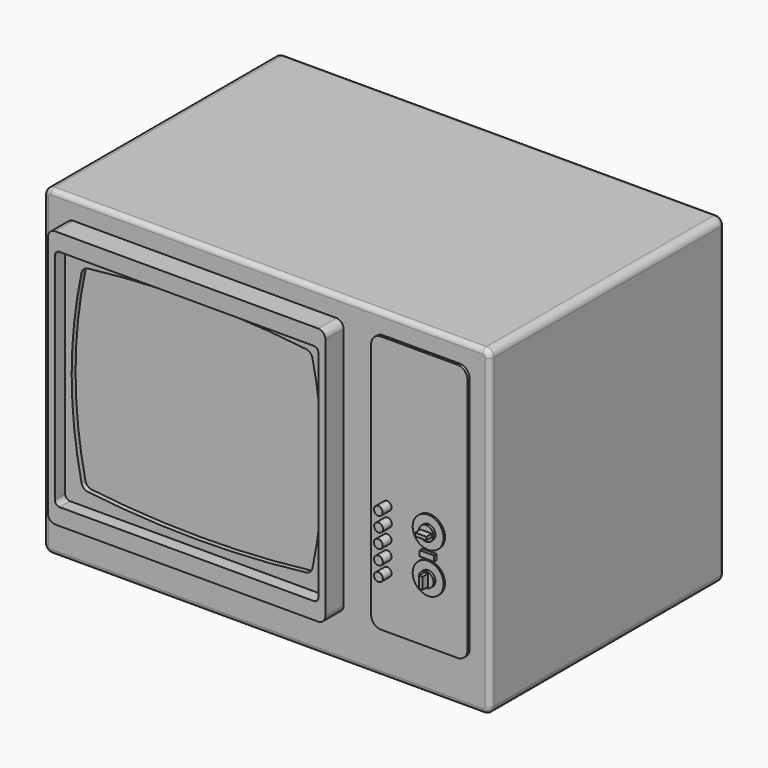
from build123d import *

# Parameters (mm, degrees)
F1_DEPTH  = 38.1
F2_DEPTH  = 44.00317
F3_DEPTH  = 40.64
F4_DEPTH  = 39.37
F0_R      = 4.0173790879
F0_W      = 3.752985141
F0_H      = 1.4123987705
F0_R_2    = 1.1369587116
F0_R_3    = 1.1476362506
F0_R_4    = 1.143
F0_R_5    = 1.1456118613
F0_R_6    = 1.1397385541
F5_DEPTH  = 38.79369
F6_DEPTH  = 39.6409
F7_DEPTH  = 41.65246
F0_R_7    = 1.9052240012
F0_R_8    = 1.9049330532
F8_DEPTH  = 39.24346
F0_W_2    = 2.9212470267
F0_H_2    = 0.8331947029
F0_W_3    = 0.8980770495
F0_H_3    = 2.9840085322
F9_DEPTH  = 39.88759
F10_DEPTH = 41.66646
F11_R     = 1.27


with BuildPart() as f1:
    # F0 (on Front) → F1 (new body, symmetric)
    with BuildSketch(Plane.XZ):
        with BuildLine():
            Line((57.7363984895, 43.2666391134), (-54.5413250339, 43.2666391134))
            ThreePointArc((-54.5413250339, 43.2666391134), (-55.8883634521, 42.7086775316), (-56.4463250339, 41.3616391134))
            Line((-56.4463250339, 41.3616391134), (-56.4463250339, -38.4328233314))
            ThreePointArc((-56.4463250339, -38.4328233314), (-55.8883634521, -39.7798617495), (-54.5413250339, -40.3378233314))
            Line((-54.5413250339, -40.3378233314), (57.7363984895, -40.3378233314))
            ThreePointArc((57.7363984895, -40.3378233314), (59.0834369076, -39.7798617495), (59.6413984895, -38.4328233314))
            Line((59.6413984895, -38.4328233314), (59.6413984895, 41.3616391134))
            ThreePointArc((59.6413984895, 41.3616391134), (59.0834369076, 42.7086775316), (57.7363984895, 43.2666391134))
        make_face()
        with BuildLine():
            ThreePointArc((-50.5886860192, 36.0365117204), (-50.0307244373, 37.3835501386), (-48.6836860192, 37.9415117204))
            Line((-48.6836860192, 37.9415117204), (19.661754207, 37.9415117204))
            ThreePointArc((19.661754207, 37.9415117204), (21.0087926252, 37.3835501386), (21.566754207, 36.0365117204))
            Line((21.566754207, 36.0365117204), (21.566754207, 4.3932273984))
            Line((21.566754207, 4.3932273984), (21.566754207, -27.2500569236))
            ThreePointArc((21.566754207, -27.2500569236), (21.0087926252, -28.5970953418), (19.661754207, -29.1550569236))
            Line((19.661754207, -29.1550569236), (-48.6836860192, -29.1550569236))
            ThreePointArc((-48.6836860192, -29.1550569236), (-50.0307244373, -28.5970953418), (-50.5886860192, -27.2500569236))
            Line((-50.5886860192, -27.2500569236), (-50.5886860192, 4.3932273984))
            Line((-50.5886860192, 4.3932273984), (-50.5886860192, 36.0365117204))
        make_face(mode=Mode.SUBTRACT)
        with BuildLine():
            ThreePointArc((29.2881838977, 35.4015117204), (30.0321326735, 37.1975629446), (31.8281838977, 37.9415117204))
            Line((31.8281838977, 37.9415117204), (51.7762748218, 37.9415117204))
            ThreePointArc((51.7762748218, 37.9415117204), (53.572326046, 37.1975629446), (54.3162748218, 35.4015117204))
            Line((54.3162748218, 35.4015117204), (54.3162748218, 4.3932273984))
            Line((54.3162748218, 4.3932273984), (54.3162748218, -20.102346316))
            Line((54.3162748218, -20.102346316), (54.3162748218, -26.6150569236))
            ThreePointArc((54.3162748218, -26.6150569236), (53.572326046, -28.4111081478), (51.7762748218, -29.1550569236))
            Line((51.7762748218, -29.1550569236), (31.8281838977, -29.1550569236))
            ThreePointArc((31.8281838977, -29.1550569236), (30.0321326735, -28.4111081478), (29.2881838977, -26.6150569236))
            Line((29.2881838977, -26.6150569236), (29.2881838977, -20.102346316))
            Line((29.2881838977, -20.102346316), (29.2881838977, -17.181346316))
            Line((29.2881838977, -17.181346316), (29.2881838977, -7.858468514))
            Line((29.2881838977, -7.858468514), (29.2881838977, 1.464409288))
            Line((29.2881838977, 1.464409288), (29.2881838977, 4.3932273984))
            Line((29.2881838977, 4.3932273984), (29.2881838977, 35.4015117204))
        make_face(mode=Mode.SUBTRACT)
    extrude(amount=F1_DEPTH, both=True)

    # F0 (on Front) → F2 (join, symmetric)
    with BuildSketch(Plane.XZ):
        with BuildLine():
            Line((19.661754207, 37.9415117204), (-48.6836860192, 37.9415117204))
            ThreePointArc((-48.6836860192, 37.9415117204), (-50.0307244373, 37.3835501386), (-50.5886860192, 36.0365117204))
            Line((-50.5886860192, 36.0365117204), (-50.5886860192, 4.3932273984))
            Line((-50.5886860192, 4.3932273984), (-48.7916360192, 4.3932273984))
            Line((-48.7916360192, 4.3932273984), (-48.7916360192, 32.3468485344))
            ThreePointArc((-48.7916360192, 32.3468485344), (-48.4236511697, 33.2352425489), (-47.5352571552, 33.6032273984))
            Line((-47.5352571552, 33.6032273984), (18.5069753431, 33.6032273984))
            ThreePointArc((18.5069753431, 33.6032273984), (19.3953693575, 33.2352425489), (19.763354207, 32.3468485344))
            Line((19.763354207, 32.3468485344), (19.763354207, 4.3932273984))
            Line((19.763354207, 4.3932273984), (21.566754207, 4.3932273984))
            Line((21.566754207, 4.3932273984), (21.566754207, 36.0365117204))
            ThreePointArc((21.566754207, 36.0365117204), (21.0087926252, 37.3835501386), (19.661754207, 37.9415117204))
        make_face()
        with BuildLine():
            Line((-48.7916360192, 4.3932273984), (-50.5886860192, 4.3932273984))
            Line((-50.5886860192, 4.3932273984), (-50.5886860192, -27.2500569236))
            ThreePointArc((-50.5886860192, -27.2500569236), (-50.0307244373, -28.5970953418), (-48.6836860192, -29.1550569236))
            Line((-48.6836860192, -29.1550569236), (19.661754207, -29.1550569236))
            ThreePointArc((19.661754207, -29.1550569236), (21.0087926252, -28.5970953418), (21.566754207, -27.2500569236))
            Line((21.566754207, -27.2500569236), (21.566754207, 4.3932273984))
            Line((21.566754207, 4.3932273984), (19.763354207, 4.3932273984))
            Line((19.763354207, 4.3932273984), (19.763354207, -23.5603937376))
            ThreePointArc((19.763354207, -23.5603937376), (19.3953693575, -24.4487877521), (18.5069753431, -24.8167726016))
            Line((18.5069753431, -24.8167726016), (-47.5352571552, -24.8167726016))
            ThreePointArc((-47.5352571552, -24.8167726016), (-48.4236511697, -24.4487877521), (-48.7916360192, -23.5603937376))
            Line((-48.7916360192, -23.5603937376), (-48.7916360192, 4.3932273984))
        make_face()
    extrude(amount=F2_DEPTH, both=True)

    # F0 (on Front) → F3 (join)
    with BuildSketch(Plane.XZ):
        with BuildLine():
            Line((-48.7916360192, 32.3468485344), (-48.7916360192, 4.3932273984))
            Line((-48.7916360192, 4.3932273984), (-47.0966382993, 4.3932273984))
            ThreePointArc((-47.0966382993, 4.3932273984), (-46.453913742, 16.4975133722), (-44.5329683267, 28.4656712297))
            ThreePointArc((-44.5329683267, 28.4656712297), (-43.952751929, 29.4734911581), (-42.8947788937, 29.9562386416))
            ThreePointArc((-42.8947788937, 29.9562386416), (-14.5109659061, 31.6314294913), (13.8728470815, 29.9562386416))
            ThreePointArc((13.8728470815, 29.9562386416), (14.9308201168, 29.4734911581), (15.5110365145, 28.4656712297))
            ThreePointArc((15.5110365145, 28.4656712297), (17.4319819299, 16.4975133722), (18.0747064871, 4.3932273984))
            Line((18.0747064871, 4.3932273984), (19.763354207, 4.3932273984))
            Line((19.763354207, 4.3932273984), (19.763354207, 32.3468485344))
            ThreePointArc((19.763354207, 32.3468485344), (19.3953693575, 33.2352425489), (18.5069753431, 33.6032273984))
            Line((18.5069753431, 33.6032273984), (-47.5352571552, 33.6032273984))
            ThreePointArc((-47.5352571552, 33.6032273984), (-48.4236511697, 33.2352425489), (-48.7916360192, 32.3468485344))
        make_face()
        with BuildLine():
            Line((-47.0966382993, 4.3932273984), (-48.7916360192, 4.3932273984))
            Line((-48.7916360192, 4.3932273984), (-48.7916360192, -23.5603937376))
            ThreePointArc((-48.7916360192, -23.5603937376), (-48.4236511697, -24.4487877521), (-47.5352571552, -24.8167726016))
            Line((-47.5352571552, -24.8167726016), (18.5069753431, -24.8167726016))
            ThreePointArc((18.5069753431, -24.8167726016), (19.3953693575, -24.4487877521), (19.763354207, -23.5603937376))
            Line((19.763354207, -23.5603937376), (19.763354207, 4.3932273984))
            Line((19.763354207, 4.3932273984), (18.0747064871, 4.3932273984))
            ThreePointArc((18.0747064871, 4.3932273984), (17.4319819299, -7.7110585754), (15.5110365145, -19.6792164329))
            ThreePointArc((15.5110365145, -19.6792164329), (14.9308201168, -20.6870363613), (13.8728470815, -21.1697838448))
            ThreePointArc((13.8728470815, -21.1697838448), (-14.5109659061, -22.8449746946), (-42.8947788937, -21.1697838448))
            ThreePointArc((-42.8947788937, -21.1697838448), (-43.952751929, -20.6870363613), (-44.5329683267, -19.6792164329))
            ThreePointArc((-44.5329683267, -19.6792164329), (-46.453913742, -7.7110585754), (-47.0966382993, 4.3932273984))
        make_face()
    extrude(amount=F3_DEPTH)

    # F0 (on Front) → F4 (join)
    with BuildSketch(Plane.XZ):
        with BuildLine():
            ThreePointArc((-44.5329683267, 28.4656712297), (-46.453913742, 16.4975133722), (-47.0966382993, 4.3932273984))
            ThreePointArc((-47.0966382993, 4.3932273984), (-46.453913742, -7.7110585754), (-44.5329683267, -19.6792164329))
            ThreePointArc((-44.5329683267, -19.6792164329), (-43.952751929, -20.6870363613), (-42.8947788937, -21.1697838448))
            ThreePointArc((-42.8947788937, -21.1697838448), (-14.5109659061, -22.8449746946), (13.8728470815, -21.1697838448))
            ThreePointArc((13.8728470815, -21.1697838448), (14.9308201168, -20.6870363613), (15.5110365145, -19.6792164329))
            ThreePointArc((15.5110365145, -19.6792164329), (17.4319819299, -7.7110585754), (18.0747064871, 4.3932273984))
            ThreePointArc((18.0747064871, 4.3932273984), (17.4319819299, 16.4975133722), (15.5110365145, 28.4656712297))
            ThreePointArc((15.5110365145, 28.4656712297), (14.9308201168, 29.4734911581), (13.8728470815, 29.9562386416))
            ThreePointArc((13.8728470815, 29.9562386416), (-14.5109659061, 31.6314294913), (-42.8947788937, 29.9562386416))
            ThreePointArc((-42.8947788937, 29.9562386416), (-43.952751929, 29.4734911581), (-44.5329683267, 28.4656712297))
        make_face()
    extrude(amount=F4_DEPTH)

    # F0 (on Front) → F5 (join, symmetric)
    with BuildSketch(Plane.XZ):
        with BuildLine():
            Line((51.7762748218, 37.9415117204), (31.8281838977, 37.9415117204))
            ThreePointArc((31.8281838977, 37.9415117204), (30.0321326735, 37.1975629446), (29.2881838977, 35.4015117204))
            Line((29.2881838977, 35.4015117204), (29.2881838977, 4.3932273984))
            Line((29.2881838977, 4.3932273984), (54.3162748218, 4.3932273984))
            Line((54.3162748218, 4.3932273984), (54.3162748218, 35.4015117204))
            ThreePointArc((54.3162748218, 35.4015117204), (53.572326046, 37.1975629446), (51.7762748218, 37.9415117204))
        make_face()
        with BuildLine():
            Line((54.3162748218, -26.6150569236), (54.3162748218, -20.102346316))
            Line((54.3162748218, -20.102346316), (29.2881838977, -20.102346316))
            Line((29.2881838977, -20.102346316), (29.2881838977, -26.6150569236))
            ThreePointArc((29.2881838977, -26.6150569236), (30.0321326735, -28.4111081478), (31.8281838977, -29.1550569236))
            Line((31.8281838977, -29.1550569236), (51.7762748218, -29.1550569236))
            ThreePointArc((51.7762748218, -29.1550569236), (53.572326046, -28.4111081478), (54.3162748218, -26.6150569236))
        make_face()
        with BuildLine():
            Line((54.3162748218, 4.3932273984), (29.2881838977, 4.3932273984))
            Line((29.2881838977, 4.3932273984), (29.2881838977, 1.464409288))
            Line((29.2881838977, 1.464409288), (34.6221838977, 1.464409288))
            Line((34.6221838977, 1.464409288), (36.3436652971, 1.464409288))
            ThreePointArc((36.3436652971, 1.464409288), (37.2320593116, 1.0964244385), (37.6000441611, 0.2080304241))
            Line((37.6000441611, 0.2080304241), (37.6000441611, -15.924967452))
            ThreePointArc((37.6000441611, -15.924967452), (37.2320593116, -16.8133614665), (36.3436652971, -17.181346316))
            Line((36.3436652971, -17.181346316), (34.6221838977, -17.181346316))
            Line((34.6221838977, -17.181346316), (29.2881838977, -17.181346316))
            Line((29.2881838977, -17.181346316), (29.2881838977, -20.102346316))
            Line((29.2881838977, -20.102346316), (54.3162748218, -20.102346316))
            Line((54.3162748218, -20.102346316), (54.3162748218, 4.3932273984))
        make_face()
        with Locations((44.4692293597, -13.1458476019)):
            Circle(F0_R, mode=Mode.SUBTRACT)
        with Locations((44.4692293597, -7.858468514)):
            Rectangle(F0_W, F0_H, mode=Mode.SUBTRACT)
        with Locations((44.4692293597, -2.5710894261)):
            Circle(F0_R, mode=Mode.SUBTRACT)
        with BuildLine():
            Line((34.6221838977, 1.464409288), (29.2881838977, 1.464409288))
            Line((29.2881838977, 1.464409288), (29.2881838977, -7.858468514))
            Line((29.2881838977, -7.858468514), (29.2881838977, -17.181346316))
            Line((29.2881838977, -17.181346316), (34.6221838977, -17.181346316))
            Line((34.6221838977, -17.181346316), (36.3436652971, -17.181346316))
            ThreePointArc((36.3436652971, -17.181346316), (37.2320593116, -16.8133614665), (37.6000441611, -15.924967452))
            Line((37.6000441611, -15.924967452), (37.6000441611, 0.2080304241))
            ThreePointArc((37.6000441611, 0.2080304241), (37.2320593116, 1.0964244385), (36.3436652971, 1.464409288))
            Line((36.3436652971, 1.464409288), (34.6221838977, 1.464409288))
        make_face()
        with Locations((33.4703953761, -15.4219753468)):
            Circle(F0_R_2, mode=Mode.SUBTRACT)
        with Locations((33.4693940317, -11.6431032741)):
            Circle(F0_R_3, mode=Mode.SUBTRACT)
        with Locations((33.4441140294, -7.858468514)):
            Circle(F0_R_4, mode=Mode.SUBTRACT)
        with Locations((33.5170375244, -4.0750015946)):
            Circle(F0_R_5, mode=Mode.SUBTRACT)
        with Locations((33.4439781752, -0.2948121259)):
            Circle(F0_R_6, mode=Mode.SUBTRACT)
    extrude(amount=F5_DEPTH, both=True)

    # F0 (on Front) → F6 (join, symmetric)
    with BuildSketch(Plane.XZ):
        with Locations((44.4692293597, -7.858468514)):
            Rectangle(F0_W, F0_H)
    extrude(amount=F6_DEPTH, both=True)

    # F0 (on Front) → F7 (join, symmetric)
    with BuildSketch(Plane.XZ):
        with Locations((33.4439781752, -0.2948121259)):
            Circle(F0_R_6)
        with Locations((33.5170375244, -4.0750015946)):
            Circle(F0_R_5)
        with Locations((33.4441140294, -7.858468514)):
            Circle(F0_R_4)
        with Locations((33.4693940317, -11.6431032741)):
            Circle(F0_R_3)
        with Locations((33.4703953761, -15.4219753468)):
            Circle(F0_R_2)
    extrude(amount=F7_DEPTH, both=True)

    # F0 (on Front) → F8 (join, symmetric)
    with BuildSketch(Plane.XZ):
        with Locations((44.4692293597, -2.5710894261)):
            Circle(F0_R)
        with Locations((44.4692293597, -2.5710894261)):
            Circle(F0_R_7, mode=Mode.SUBTRACT)
        with Locations((44.4692293597, -13.1458476019)):
            Circle(F0_R)
        with Locations((44.4692293597, -13.1458476019)):
            Circle(F0_R_8, mode=Mode.SUBTRACT)
    extrude(amount=F8_DEPTH, both=True)

    # F0 (on Front) → F9 (join, symmetric)
    with BuildSketch(Plane.XZ):
        with Locations((44.4692293597, -2.5710894261)):
            Circle(F0_R_7)
        with Locations((44.4692293597, -2.5710894261)):
            Rectangle(F0_W_2, F0_H_2, mode=Mode.SUBTRACT)
        with Locations((44.4692293597, -13.1458476019)):
            Circle(F0_R_8)
        with Locations((44.4692293597, -13.1458476019)):
            Rectangle(F0_W_3, F0_H_3, mode=Mode.SUBTRACT)
    extrude(amount=F9_DEPTH, both=True)

    # F0 (on Front) → F10 (join, symmetric)
    with BuildSketch(Plane.XZ):
        with Locations((44.4692293597, -13.1458476019)):
            Rectangle(F0_W_3, F0_H_3)
        with Locations((44.4692293597, -2.5710894261)):
            Rectangle(F0_W_2, F0_H_2)
    extrude(amount=F10_DEPTH, both=True)

    # F11
    f11_edges = [f1.edges().sort_by_distance(p)[0] for p in [
        (1.597537, 38.1, 43.266639),
        (-54.541325, 0, 43.266639),
        (1.597537, -38.1, 43.266639),
        (57.736398, 0, 43.266639),
        (59.641398, 38.1, 1.464408),
        (59.641398, 0, 41.361639),
        (59.641398, -38.1, 1.464408),
        (59.641398, 0, -38.432823),
        (59.083437, 38.1, 42.708678),
        (59.083437, -38.1, 42.708678),
        (-54.541325, 0, -40.337823),
        (1.597537, 38.1, -40.337823),
        (57.736398, 0, -40.337823),
        (1.597537, -38.1, -40.337823),
        (59.083437, 38.1, -39.779862),
        (59.083437, -38.1, -39.779862),
        (-56.446325, 0, 41.361639),
        (-56.446325, 38.1, 1.464408),
        (-56.446325, 0, -38.432823),
        (-56.446325, -38.1, 1.464408),
        (-55.888363, 38.1, -39.779862),
        (-55.888363, -38.1, -39.779862),
        (-55.888363, 38.1, 42.708678),
        (-55.888363, -38.1, 42.708678),
    ]]
    fillet(f11_edges, radius=F11_R)


solid = f1.part
